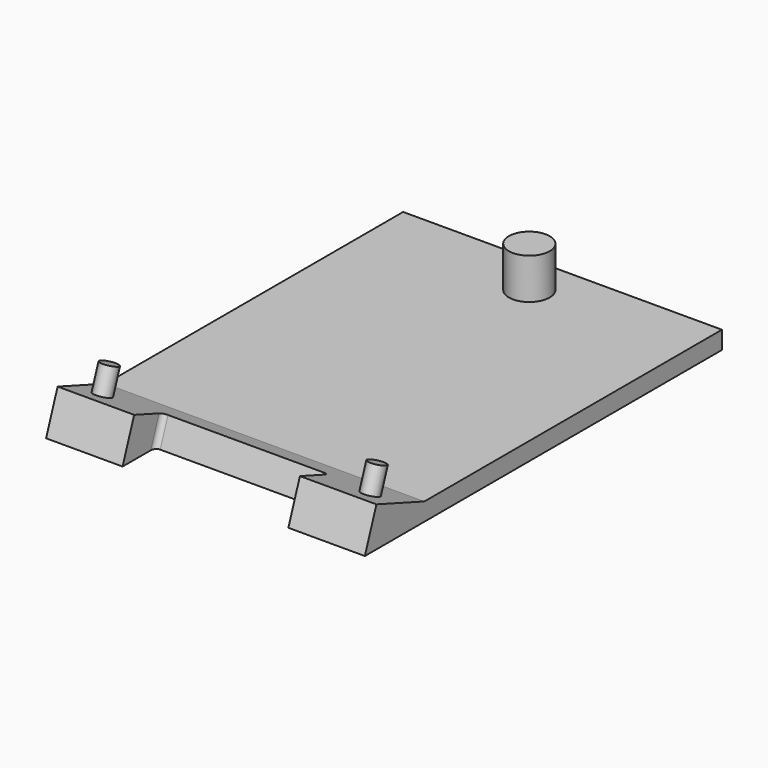
from build123d import *

# Parameters (mm, degrees)
F2_DEPTH = 25
F4_DEPTH = 3.3107000528
F5_R     = 0.6765328669
F6_DEPTH = 2
F7_R     = 1.6
F8_DEPTH = 3.2


with BuildPart() as f2:
    # F1 (on Right) → F2 (new body)
    with BuildSketch(Plane.YZ):
        Polygon((0, 0), (35, 0), (35, 1.4), (5.8304471904, 1.4), (1.1319840864, 3.1101007166), align=None)
    extrude(amount=F2_DEPTH)

    # F3 (on face) → F4 (cut, through all)
    with BuildSketch(Plane(origin=(0, 1.1319840864, 3.1101007166), x_dir=(1, 0, 0), z_dir=(0, 0.3420201433, 0.9396926208))):
        with BuildLine():
            Line((6, 0), (19, 0))
            Line((19, 0), (19, 2.6))
            ThreePointArc((19, 2.6), (18.8828427125, 2.8828427125), (18.6, 3))
            Line((18.6, 3), (6.4, 3))
            ThreePointArc((6.4, 3), (6.1171572875, 2.8828427125), (6, 2.6))
            Line((6, 2.6), (6, 0))
        make_face()
    extrude(amount=-F4_DEPTH, mode=Mode.SUBTRACT)

    # F5 (on face) → F6 (join)
    with BuildSketch(Plane(origin=(0, 1.1319840864, 3.1101007166), x_dir=(1, 0, 0), z_dir=(0, 0.3420201433, 0.9396926208))):
        with Locations((23, 2)):
            Circle(F5_R)
        with Locations((2, 2)):
            Circle(F5_R)
    extrude(amount=F6_DEPTH)

    # F7 (on face) → F8 (join)
    with BuildSketch(Plane.XY.offset(1.4)):
        with Locations((12.5, 31.7446738482)):
            Circle(F7_R)
    extrude(amount=F8_DEPTH)


solid = f2.part
